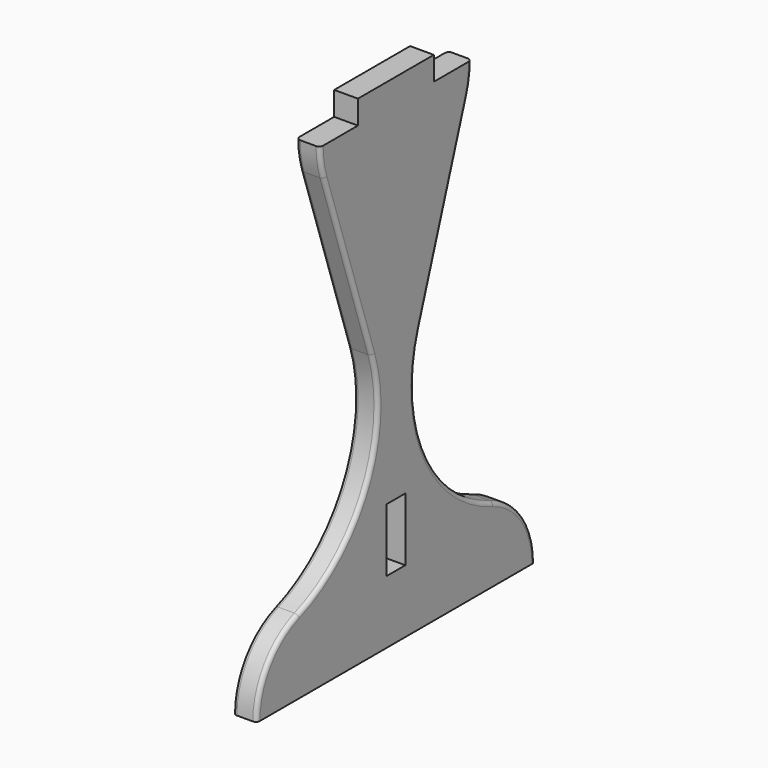
from build123d import *

# Parameters (mm, degrees)
F1_DEPTH = 38.1
F2_R     = 6.35
F3_W     = 38.1
F3_H     = 101.6
F4_DEPTH = 38.1


with BuildPart() as f1:
    # F0 (on Right) → F1 (new body)
    with BuildSketch(Plane.YZ):
        with BuildLine():
            Line((-279.4, 0), (0, 0))
            Line((0, 0), (279.4, 0))
            ThreePointArc((279.4, 0), (256.466555, 72.795275), (195.948786, 119.300056))
            ThreePointArc((195.948786, 119.300056), (60.252824, 242.073318), (48.461383, 424.686653))
            Line((48.461383, 424.686653), (144.617616, 713.921884))
            ThreePointArc((144.617616, 713.921884), (150.441824, 737.648045), (152.4, 762))
            Line((152.4, 762), (76.2, 762))
            Line((76.2, 762), (0, 762))
            Line((0, 762), (-76.2, 762))
            Line((-76.2, 762), (-152.4, 762))
            ThreePointArc((-152.4, 762), (-150.441824, 737.648045), (-144.617616, 713.921884))
            Line((-144.617616, 713.921884), (-48.461383, 424.686653))
            ThreePointArc((-48.461383, 424.686653), (-60.252824, 242.073318), (-195.948786, 119.300056))
            ThreePointArc((-195.948786, 119.300056), (-256.466555, 72.795275), (-279.4, 0))
        make_face()
        Polygon((-76.2, 800.1), (-76.2, 762), (0, 762), (76.2, 762), (76.2, 800.1), align=None)
    extrude(amount=F1_DEPTH)

    # F2
    f2_edges = [f1.edges().sort_by_distance(p)[0] for p in [
        (38.1, -60.252824, 242.073318),
        (0, 60.252824, 242.073318),
        (38.1, 60.252824, 242.073318),
        (0, -96.539499, 569.304268),
    ]]
    fillet(f2_edges, radius=F2_R)

    # F3 (on face) → F4 (cut, through all)
    with BuildSketch(Plane(origin=(0, 0, 0), x_dir=(0, -1, 0), z_dir=(-1, 0, 0))):
        with Locations((0, 152.4)):
            Rectangle(F3_W, F3_H)
    extrude(amount=-F4_DEPTH, mode=Mode.SUBTRACT)


solid = f1.part
